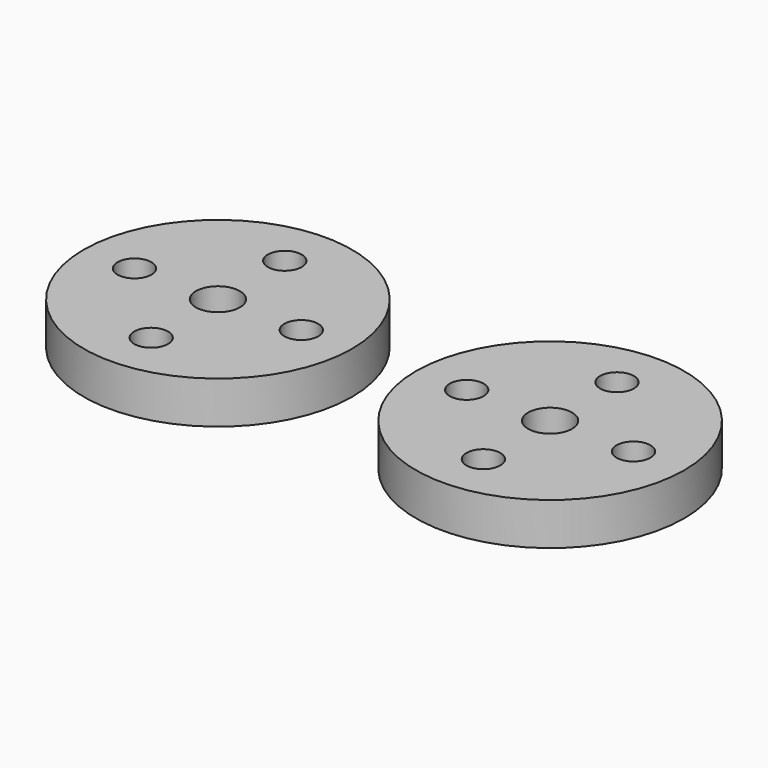
from build123d import *

# Parameters (mm, degrees)
F0_R     = 7.925
F0_R_2   = 1
F0_R_3   = 1.3
F1_DEPTH = 2.5


with BuildPart() as f1:
    # F0 (on Top) → F1 (new body)
    with BuildSketch(Plane.XY):
        with Locations((-54.766204, 19.824224)):
            Circle(F0_R)
        with Locations((-54.766204, 14.899224)):
            Circle(F0_R_2, mode=Mode.SUBTRACT)
        with Locations((-59.691204, 19.824224)):
            Circle(F0_R_2, mode=Mode.SUBTRACT)
        with Locations((-54.766204, 19.824224)):
            Circle(F0_R_3, mode=Mode.SUBTRACT)
        with Locations((-49.841204, 19.824224)):
            Circle(F0_R_2, mode=Mode.SUBTRACT)
        with Locations((-54.755844, 24.749213)):
            Circle(F0_R_2, mode=Mode.SUBTRACT)
        with Locations((-35.227058, 19.923363)):
            Circle(F0_R)
        with Locations((-35.227058, 14.998363)):
            Circle(F0_R_2, mode=Mode.SUBTRACT)
        with Locations((-40.152058, 19.923363)):
            Circle(F0_R_2, mode=Mode.SUBTRACT)
        with Locations((-35.227058, 19.923363)):
            Circle(F0_R_3, mode=Mode.SUBTRACT)
        with Locations((-30.302058, 19.923363)):
            Circle(F0_R_2, mode=Mode.SUBTRACT)
        with Locations((-35.216699, 24.848352)):
            Circle(F0_R_2, mode=Mode.SUBTRACT)
    extrude(amount=F1_DEPTH)


solid = f1.part
